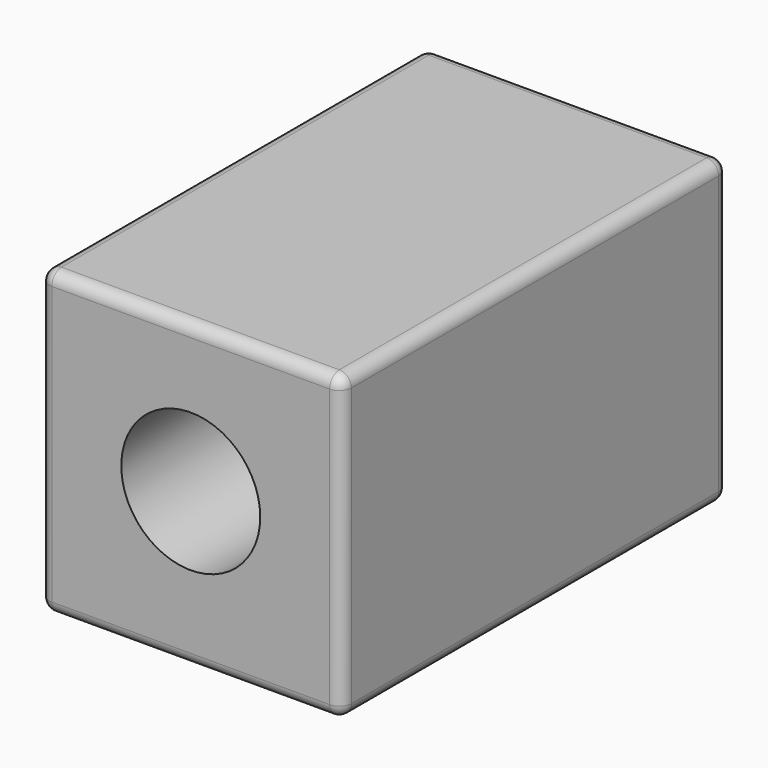
from build123d import *

# Parameters (mm, degrees)
F0_W     = 127
F0_H     = 203.2
F1_DEPTH = 127
F2_R     = 5.08
F3_R     = 29.219894
F4_DEPTH = 184.404


with BuildPart() as f1:
    # F0 (on Top) → F1 (new body)
    with BuildSketch(Plane.XY):
        Rectangle(F0_W, F0_H)
    extrude(amount=F1_DEPTH)

    # F2
    f2_edges = [f1.edges().sort_by_distance(p)[0] for p in [
        (0, 101.6, 127),
        (-63.5, 0, 127),
        (0, -101.6, 127),
        (63.5, 0, 127),
        (-63.5, -101.6, 63.5),
        (63.5, -101.6, 63.5),
        (0, -101.6, 0),
        (63.5, 101.6, 63.5),
        (63.5, 0, 0),
        (-63.5, 101.6, 63.5),
        (0, 101.6, 0),
        (-63.5, 0, 0),
    ]]
    fillet(f2_edges, radius=F2_R)

    # F3 (on face) → F4 (cut)
    with BuildSketch(Plane.XZ.offset(101.6)):
        with Locations((0, 65.043747)):
            Circle(F3_R)
    extrude(amount=-F4_DEPTH, mode=Mode.SUBTRACT)


solid = f1.part
